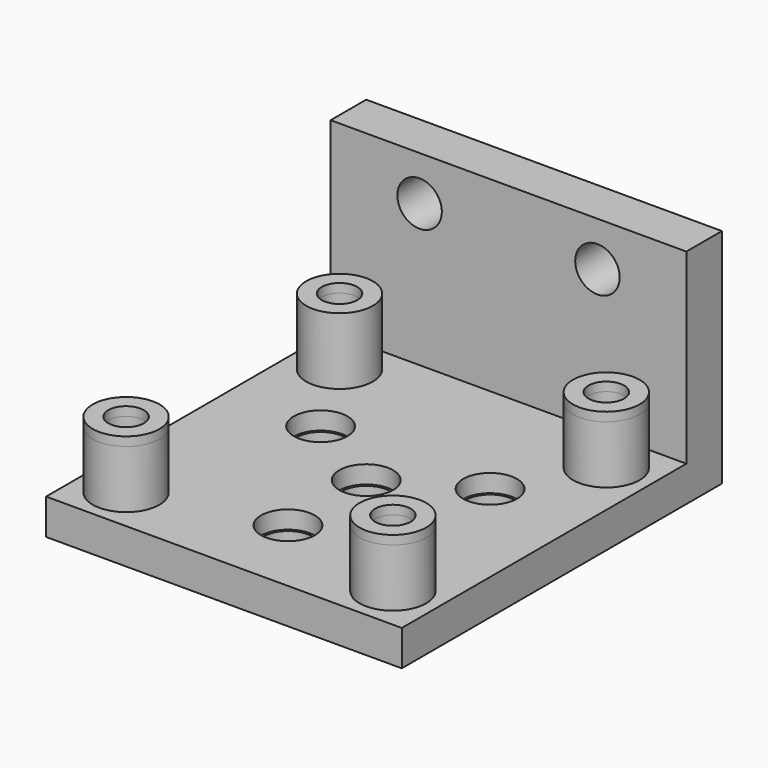
from build123d import *

# Parameters (mm, degrees)
F0_W      = 80
F0_H      = 80
F1_DEPTH  = 8
F2_R      = 6.05
F2_R_2    = 5.5
F3_DEPTH  = 4
F4_DEPTH  = 25
F5_DEPTH  = 25
F6_R      = 7.5
F6_R_2    = 4
F7_DEPTH  = 13
F8_DEPTH  = 25
F9_W      = 80
F9_H      = 10
F10_DEPTH = 50
F11_R     = 5
F12_DEPTH = 25
F13_DEPTH = 2


with BuildPart() as f1:
    # F0 (on Top) → F1 (new body)
    with BuildSketch(Plane.XY):
        Rectangle(F0_W, F0_H)
    extrude(amount=F1_DEPTH)

    # F2 (on face) → F3 (cut)
    with BuildSketch(Plane.XY.offset(8)):
        with Locations((-19.0525588833, 11)):
            Circle(F2_R)
        with Locations((-19.0525588833, 11)):
            Circle(F2_R_2, mode=Mode.SUBTRACT)
        with Locations((19.0525588833, 11)):
            Circle(F2_R)
        with Locations((19.0525588833, 11)):
            Circle(F2_R_2, mode=Mode.SUBTRACT)
        Circle(F2_R)
        Circle(F2_R_2, mode=Mode.SUBTRACT)
        with Locations((0, -22)):
            Circle(F2_R)
        with Locations((0, -22)):
            Circle(F2_R_2, mode=Mode.SUBTRACT)
    extrude(amount=-F3_DEPTH, mode=Mode.SUBTRACT)

    # F4 (cut): faces of the model
    f4_faces = [f1.faces().sort_by_distance(p)[0] for p in [
        (-19.0525588833, 11, 8),
        (19.0525588833, 11, 8),
        (0, -22, 8),
    ]]
    extrude(f4_faces, amount=-F4_DEPTH, mode=Mode.SUBTRACT)

    # F5 (cut): a face of the model
    f5_faces = [f1.faces().sort_by_distance(p)[0] for p in [
        (0, 0, 8),
    ]]
    extrude(f5_faces, amount=-F5_DEPTH, mode=Mode.SUBTRACT)

    # F6 (on face) → F7 (join)
    with BuildSketch(Plane.XY.offset(8)):
        with Locations((-30, 30)):
            Circle(F6_R)
        with Locations((-30, 30)):
            Circle(F6_R_2, mode=Mode.SUBTRACT)
        with Locations((30, 30)):
            Circle(F6_R)
        with Locations((30, 30)):
            Circle(F6_R_2, mode=Mode.SUBTRACT)
        with Locations((30, -30)):
            Circle(F6_R)
        with Locations((30, -30)):
            Circle(F6_R_2, mode=Mode.SUBTRACT)
        with Locations((-30, -30)):
            Circle(F6_R)
        with Locations((-30, -30)):
            Circle(F6_R_2, mode=Mode.SUBTRACT)
    extrude(amount=F7_DEPTH)

    # F8 (cut): faces of the model
    f8_faces = [f1.faces().sort_by_distance(p)[0] for p in [
        (-30, 30, 8),
        (30, 30, 8),
        (-30, -30, 8),
        (30, -30, 8),
    ]]
    extrude(f8_faces, amount=-F8_DEPTH, mode=Mode.SUBTRACT)

    # F9 (on face) → F10 (join)
    with BuildSketch(Plane(origin=(0, 0, 0), x_dir=(1, 0, 0), z_dir=(0, 0, -1))):
        with Locations((0, -45)):
            Rectangle(F9_W, F9_H)
    extrude(amount=-F10_DEPTH)

    # F11 (on face) → F12 (cut)
    with BuildSketch(Plane(origin=(0, 50, 0), x_dir=(-1, 0, 0), z_dir=(0, 1, 0))):
        with Locations((-20, 40)):
            Circle(F11_R)
        with Locations((20, 40)):
            Circle(F11_R)
    extrude(amount=-F12_DEPTH, mode=Mode.SUBTRACT)

    # F13 (add): faces of the model
    f13_faces = [f1.faces().sort_by_distance(p)[0] for p in [
        (-37.2878679656, 30, 21),
        (-37.2878679656, -30, 21),
        (22.7121320344, -30, 21),
        (22.7121320344, 30, 21),
    ]]
    extrude(f13_faces, amount=F13_DEPTH)


solid = f1.part
